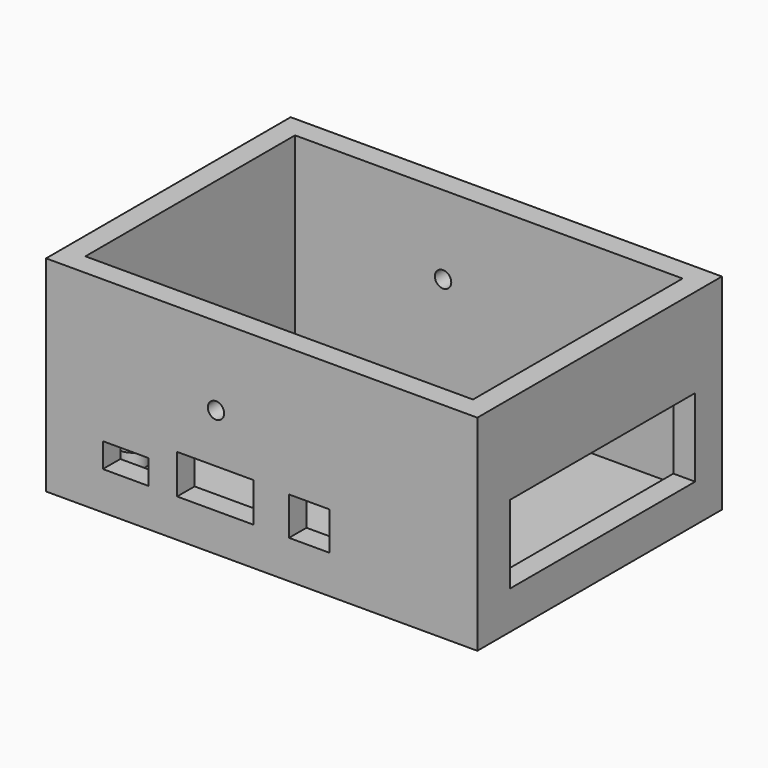
from build123d import *

# Parameters (mm, degrees)
F0_W      = 100.33
F0_H      = 71.12
F0_W_2    = 90.17
F0_H_2    = 60.96
F1_DEPTH  = 5.08
F2_W      = 100.33
F2_H      = 71.12
F3_DEPTH  = 5.08
F0_R      = 1.375
F4_DEPTH  = 25.4
F5_R      = 3.1
F5_R_2    = 1.375
F6_DEPTH  = 3.556
F7_DEPTH  = 37.592
F8_W      = 13.716
F8_H      = 3.556
F9_DEPTH  = 5.08
F10_W     = 10.668
F10_H     = 5.715
F10_W_2   = 17.78
F10_H_2   = 9.144
F10_W_3   = 9.398
F10_H_3   = 8.89
F11_DEPTH = 5.08
F12_W     = 53.8226
F12_H     = 18.161
F13_DEPTH = 5.08
F14_R     = 1.905
F15_DEPTH = 71.121


with BuildPart() as f1:
    # F0 (on Top) → F1 (new body)
    with BuildSketch(Plane.XY):
        with Locations((42.545, 27.94)):
            Rectangle(F0_W, F0_H)
        with Locations((42.545, 27.94)):
            Rectangle(F0_W_2, F0_H_2, mode=Mode.SUBTRACT)
    extrude(amount=-F1_DEPTH)

    # F2 (on face) → F3 (join)
    with BuildSketch(Plane(origin=(0, 0, -5.08), x_dir=(1, 0, 0), z_dir=(0, 0, -1))):
        with Locations((42.545, -27.94)):
            Rectangle(F2_W, F2_H)
    extrude(amount=F3_DEPTH)

    # F0 (on Top) → F4 (cut)
    with BuildSketch(Plane.XY):
        with Locations((3.5, 52.38)):
            Circle(F0_R)
        with Locations((61.5, 52.38)):
            Circle(F0_R)
        with Locations((61.5, 3.5)):
            Circle(F0_R)
        with Locations((3.5, 3.5)):
            Circle(F0_R)
    extrude(amount=-F4_DEPTH, mode=Mode.SUBTRACT)

    # F5 (on face) → F6 (join)
    with BuildSketch(Plane.XY.offset(-5.08)):
        with Locations((3.5, 52.38)):
            Circle(F5_R)
        with Locations((3.5, 52.38)):
            Circle(F5_R_2, mode=Mode.SUBTRACT)
        with Locations((61.5, 52.38)):
            Circle(F5_R)
        with Locations((61.5, 52.38)):
            Circle(F5_R_2, mode=Mode.SUBTRACT)
        with Locations((61.5, 3.5)):
            Circle(F5_R)
        with Locations((61.5, 3.5)):
            Circle(F5_R_2, mode=Mode.SUBTRACT)
        with Locations((3.5, 3.5)):
            Circle(F5_R)
        with Locations((3.5, 3.5)):
            Circle(F5_R_2, mode=Mode.SUBTRACT)
    extrude(amount=F6_DEPTH)

    # F0 (on Top) → F7 (join)
    with BuildSketch(Plane.XY):
        with Locations((42.545, 27.94)):
            Rectangle(F0_W, F0_H)
        with Locations((42.545, 27.94)):
            Rectangle(F0_W_2, F0_H_2, mode=Mode.SUBTRACT)
    extrude(amount=F7_DEPTH)

    # F8 (on face) → F9 (cut, through all)
    with BuildSketch(Plane(origin=(-7.62, 0, 0), x_dir=(0, -1, 0), z_dir=(-1, 0, 0))):
        with Locations((-27.94, -2.032)):
            Rectangle(F8_W, F8_H)
    extrude(amount=-F9_DEPTH, mode=Mode.SUBTRACT)

    # F10 (on face) → F11 (cut, through all)
    with BuildSketch(Plane.XZ.offset(7.62)):
        with Locations((10.922, 1.5875)):
            Rectangle(F10_W, F10_H)
        with Locations((31.75, 3.302)):
            Rectangle(F10_W_2, F10_H_2)
        with Locations((53.594, 3.175)):
            Rectangle(F10_W_3, F10_H_3)
    extrude(amount=-F11_DEPTH, mode=Mode.SUBTRACT)

    # F12 (on face) → F13 (cut, through all)
    with BuildSketch(Plane.YZ.offset(92.71)):
        with Locations((28.8163, 7.8105)):
            Rectangle(F12_W, F12_H)
    extrude(amount=-F13_DEPTH, mode=Mode.SUBTRACT)

    # F14 (on face) → F15 (cut, through all)
    with BuildSketch(Plane.XZ.offset(7.62)):
        with Locations((31.9024, 19.304)):
            Circle(F14_R)
    extrude(amount=-F15_DEPTH, mode=Mode.SUBTRACT)


solid = f1.part
